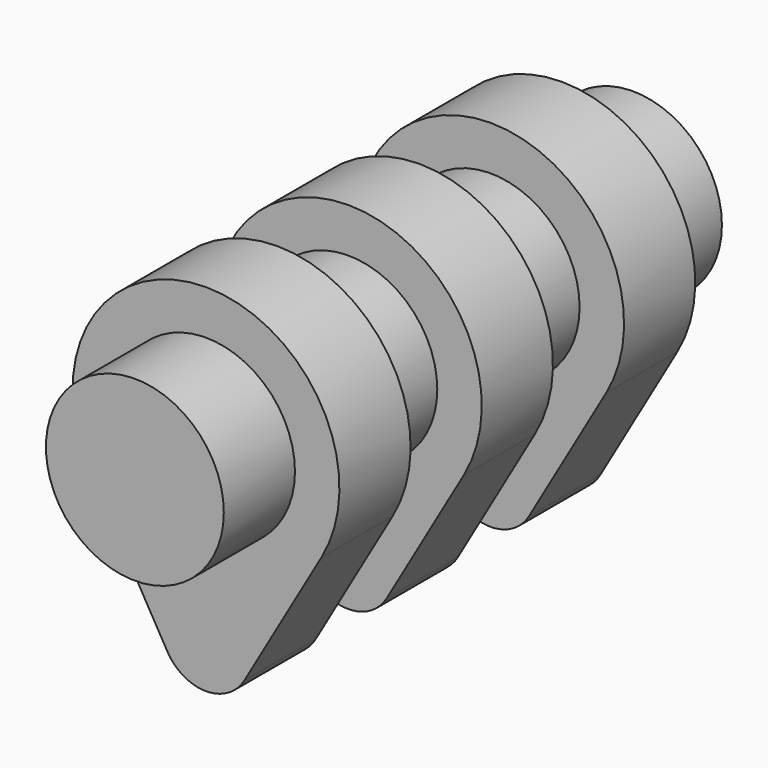
from build123d import *

# Parameters (mm, degrees)
F0_R      = 12.7
F1_DEPTH  = 88.9
F3_R      = 12.7
F4_DEPTH  = 12.7
F6_R      = 12.7
F7_DEPTH  = 12.7
F9_R      = 12.7
F10_DEPTH = 12.7


with BuildPart() as f1:
    # F0 (on Front) → F1 (new body)
    with BuildSketch(Plane.XZ):
        Circle(F0_R)
    extrude(amount=F1_DEPTH)

    # F3 (on offset) → F4 (join)
    with BuildSketch(Plane.XZ.offset(12.7)):
        with BuildLine():
            Line((5.499261, -28.575), (16.497784, -9.525))
            ThreePointArc((16.497784, -9.525), (0, 19.05), (-16.497784, -9.525))
            Line((-16.497784, -9.525), (-5.499261, -28.575))
            ThreePointArc((-5.499261, -28.575), (0, -31.75), (5.499261, -28.575))
        make_face()
        Circle(F3_R, mode=Mode.SUBTRACT)
    extrude(amount=F4_DEPTH)

    # F6 (on offset) → F7 (join)
    with BuildSketch(Plane.XZ.offset(38.1)):
        with BuildLine():
            Line((5.499261, -28.575), (16.497784, -9.525))
            ThreePointArc((16.497784, -9.525), (0, 19.05), (-16.497784, -9.525))
            Line((-16.497784, -9.525), (-5.499261, -28.575))
            ThreePointArc((-5.499261, -28.575), (0, -31.75), (5.499261, -28.575))
        make_face()
        Circle(F6_R, mode=Mode.SUBTRACT)
    extrude(amount=F7_DEPTH)

    # F9 (on offset) → F10 (join)
    with BuildSketch(Plane.XZ.offset(63.5)):
        with BuildLine():
            Line((5.499261, -28.575), (16.497784, -9.525))
            ThreePointArc((16.497784, -9.525), (0, 19.05), (-16.497784, -9.525))
            Line((-16.497784, -9.525), (-5.499261, -28.575))
            ThreePointArc((-5.499261, -28.575), (0, -31.75), (5.499261, -28.575))
        make_face()
        Circle(F9_R, mode=Mode.SUBTRACT)
    extrude(amount=F10_DEPTH)


solid = f1.part
